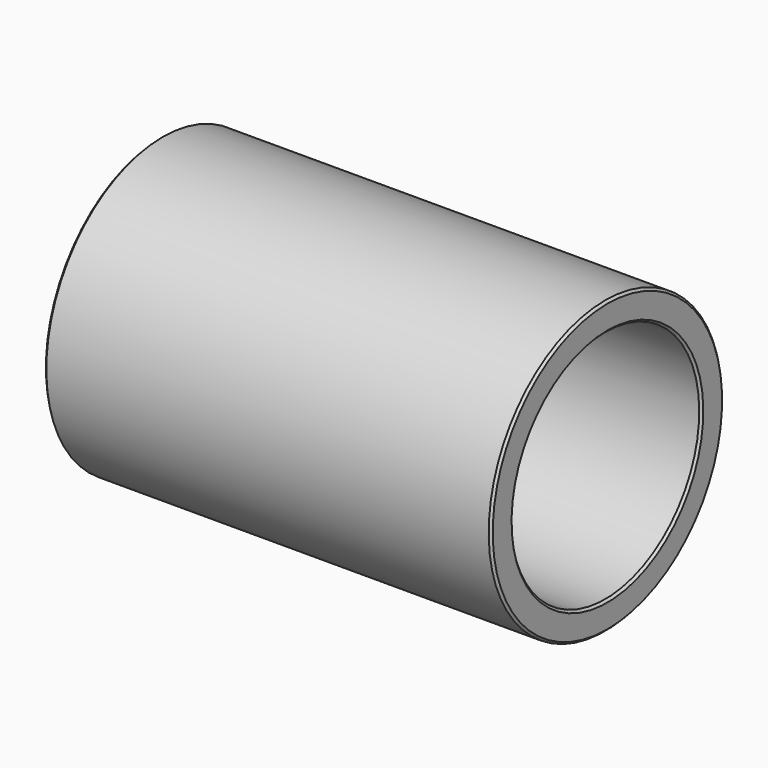
from build123d import *

# Parameters (mm, degrees)
F0_W    = 39.9
F0_H    = 2.5
F2_SIZE = 0.2


with BuildPart() as f1:
    # F0 (on Front) → F1 (revolve)
    with BuildSketch(Plane.XZ):
        with Locations((-2.781173, 11.75)):
            Rectangle(F0_W, F0_H)
    revolve(axis=Axis((-4.80183, 0, 0), (-1, 0, 0)))

    # F2
    f2_edges = [f1.edges().sort_by_distance(p)[0] for p in [
        (17.168827, 0, -13),
        (17.168827, 0, -10.5),
        (-22.731173, 0, -10.5),
        (-22.731173, 0, -13),
    ]]
    chamfer(f2_edges, length=F2_SIZE)


solid = f1.part
